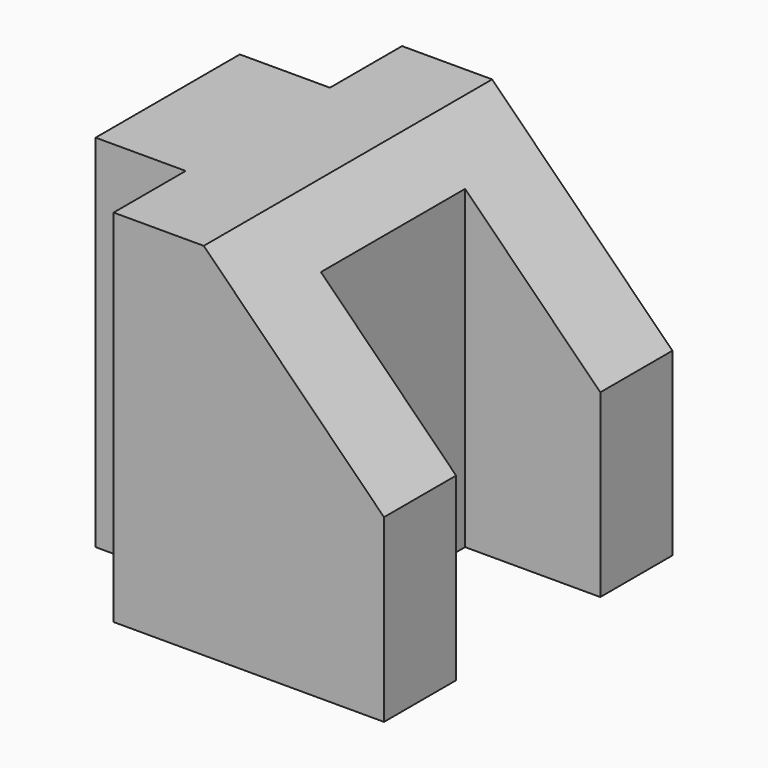
from build123d import *

# Parameters (mm, degrees)
F1_DEPTH = 25.4
F3_DEPTH = 50.801


with BuildPart() as f1:
    # F0 (on Top) → F1 (new body, symmetric)
    with BuildSketch(Plane.XY):
        Polygon((19.05, -12.7), (0, -12.7), (0, 12.7), (19.05, 12.7), (19.05, 25.4), (-19.05, 25.4), (-19.05, 12.7), (-31.75, 12.7), (-31.75, -12.7), (-19.05, -12.7), (-19.05, -25.4), (19.05, -25.4), align=None)
    extrude(amount=F1_DEPTH, both=True)

    # F2 (on face) → F3 (cut, through all)
    with BuildSketch(Plane.XZ.offset(25.4)):
        Polygon((19.05, 0), (19.05, 25.4), (-6.35, 25.4), align=None)
    extrude(amount=-F3_DEPTH, mode=Mode.SUBTRACT)


solid = f1.part
